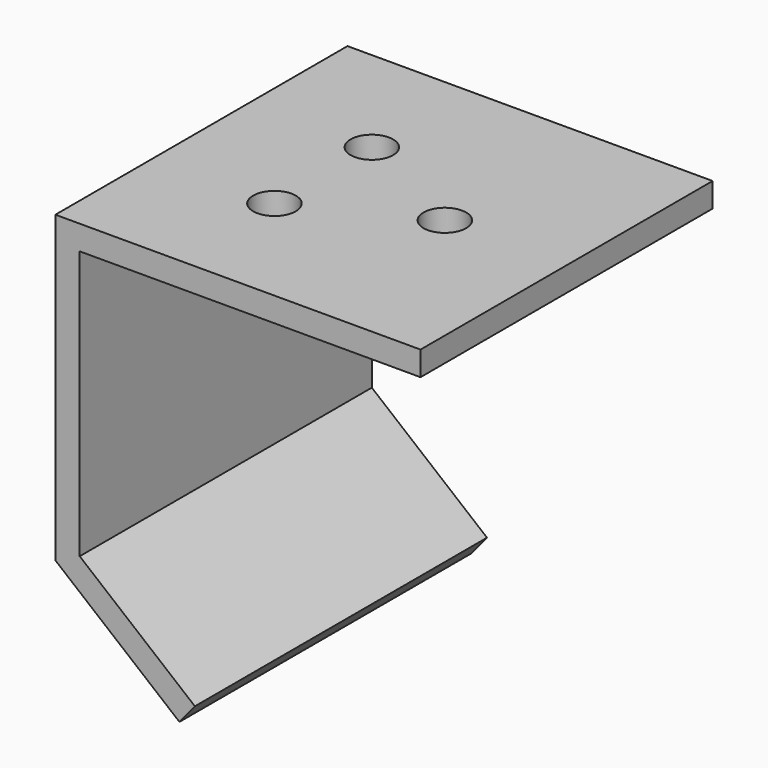
from build123d import *

# Parameters (mm, degrees)
F1_DEPTH = 30
F3_D     = 3.5
F3_DEPTH = 5


with BuildPart() as f1:
    # F0 (on Front) → F1 (new body)
    with BuildSketch(Plane.XZ):
        Polygon((27.040993, 7.364779), (-2.959007, 7.364779), (-2.959007, -17.635221), (7.234091, -26.008121), (8.50357, -24.462669), (-0.959007, -16.689839), (-0.959007, 5.364779), (27.040993, 5.364779), align=None)
    extrude(amount=F1_DEPTH)

    # F3
    with Locations(Plane.XY.offset(7.364779)):
        with Locations((7.040993, -10), (17.040993, -15), (7.040993, -20)):
            Hole(F3_D / 2, depth=F3_DEPTH)


solid = f1.part
